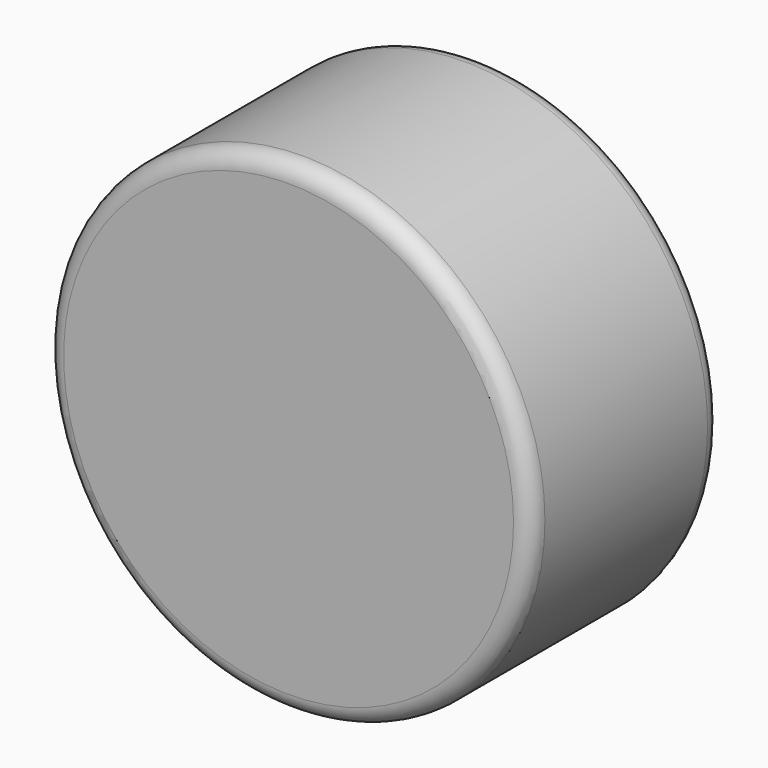
from build123d import *

# Parameters (mm, degrees)
F0_R     = 70.557868
F1_DEPTH = 69.328785
F2_R     = 5.08


with BuildPart() as f1:
    # F0 (on Front) → F1 (new body)
    with BuildSketch(Plane.XZ):
        with Locations((-48.534952, -24.406929)):
            Circle(F0_R)
    extrude(amount=F1_DEPTH)

    # F2
    f2_edges = [f1.edges().sort_by_distance(p)[0] for p in [
        (22.022916, -34.664392, -24.406929),
        (-119.09282, 0, -24.406929),
        (-119.09282, -69.328785, -24.406929),
    ]]
    fillet(f2_edges, radius=F2_R)


solid = f1.part
